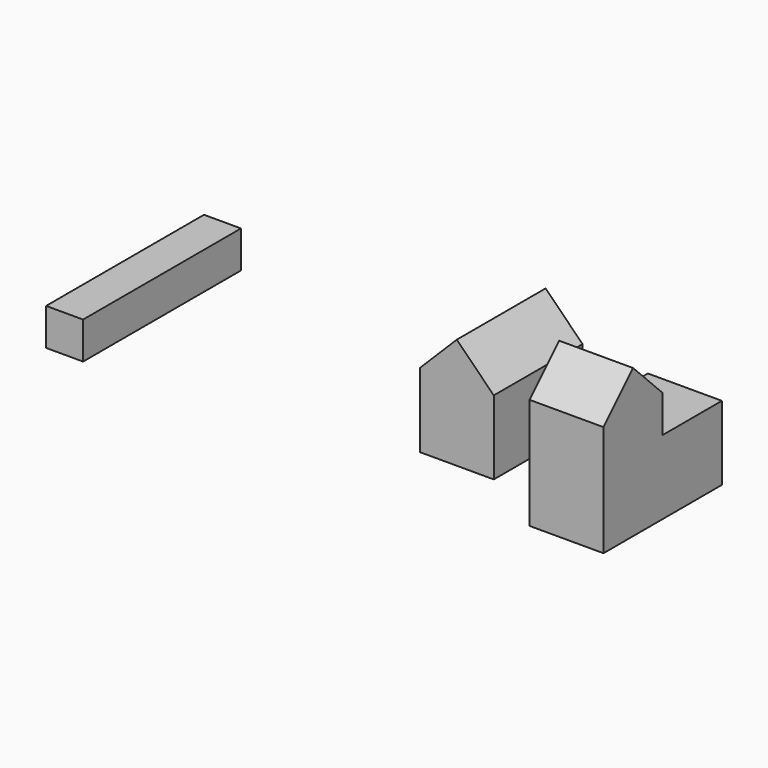
from build123d import *

# Parameters (mm, degrees)
F0_W      = 4.7625
F0_H      = 4.7625
F1_DEPTH  = 25.4
F2_W      = 9.525
F2_H      = 9.525
F3_DEPTH  = 14.2875
F5_DEPTH  = 14.2875
F6_W      = 9.525
F6_H      = 9.525
F7_DEPTH  = 19.05
F8_W      = 9.525
F8_H      = 4.7625
F9_DEPTH  = 9.525
F11_DEPTH = 9.525


with BuildPart() as f1:
    # F0 (on Front) → F1 (new body)
    with BuildSketch(Plane.XZ):
        with Locations((-27.7138361707, 10.5231681079)):
            Rectangle(F0_W, F0_H)
    extrude(amount=F1_DEPTH)


with BuildPart() as f3:
    # F2 (on Front) → F3 (new body)
    with BuildSketch(Plane.XZ):
        with Locations((13.8682615355, 9.33401566)):
            Rectangle(F2_W, F2_H)
    extrude(amount=F3_DEPTH)

    # F4 (on face) → F5 (join)
    with BuildSketch(Plane.XZ.offset(14.2875)):
        Polygon((18.6307615355, 14.09651566), (13.8682615355, 18.85901566), (9.1057615355, 14.09651566), align=None)
    extrude(amount=-F5_DEPTH)


with BuildPart() as f7:
    # F6 (on Front) → F7 (new body)
    with BuildSketch(Plane.XZ):
        with Locations((31.7975869402, 8.7385558866)):
            Rectangle(F6_W, F6_H)
    extrude(amount=F7_DEPTH)

    # F8 (on face) → F9 (join)
    with BuildSketch(Plane.XZ.offset(19.05)):
        with Locations((31.7975869402, 15.8823058866)):
            Rectangle(F8_W, F8_H)
    extrude(amount=-F9_DEPTH)

    # F10 (on face) → F11 (join)
    with BuildSketch(Plane.YZ.offset(36.5600869402)):
        Polygon((-9.525, 18.2635558866), (-14.2875, 23.0260558866), (-19.05, 18.2635558866), align=None)
    extrude(amount=-F11_DEPTH)


solid = Compound([f1.part, f3.part, f7.part])
